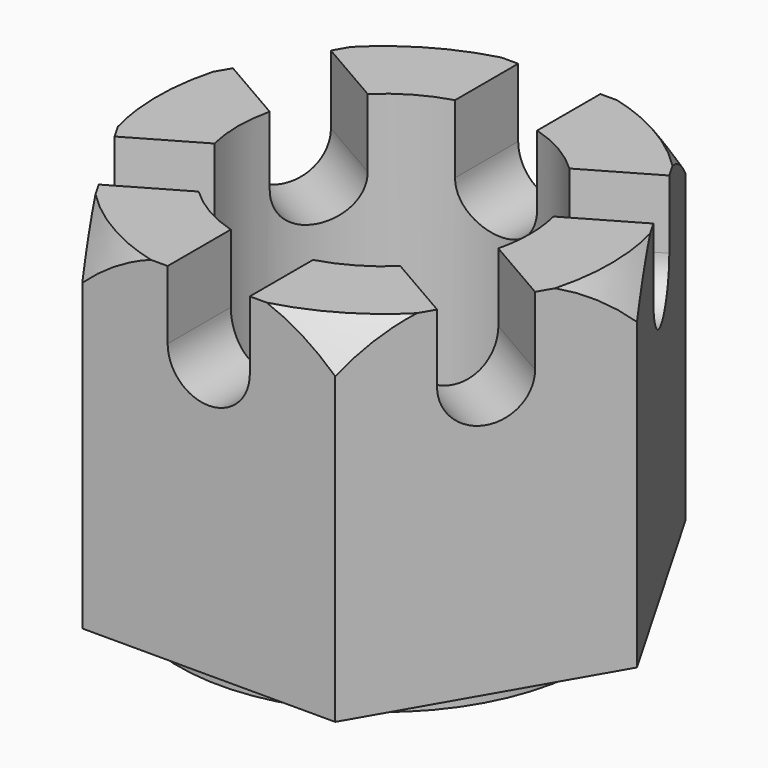
from build123d import *

# Parameters (mm, degrees)
F1_DEPTH  = 19
F2_R      = 11.25
F3_DEPTH  = 0.8
F4_R      = 8
F5_DEPTH  = 17
F7_DEPTH  = 25
F9_DEPTH  = 25
F11_DEPTH = 30.05913
F14_R     = 8
F15_DEPTH = 25


with BuildPart() as f1:
    # F0 (on Top) → F1 (new body)
    with BuildSketch(Plane.XY):
        Polygon((0, -12), (0, 0), (0, 12), (-6.928203, 12), (-13.856406, 0), (-6.928203, -12), align=None)
        Polygon((0, 12), (0, 0), (0, -12), (6.928203, -12), (13.856406, 0), (6.928203, 12), align=None)
    extrude(amount=F1_DEPTH)

    # F2 (on face) → F3 (join)
    with BuildSketch(Plane(origin=(0, 0, 0), x_dir=(1, 0, 0), z_dir=(0, 0, -1))):
        Circle(F2_R)
    extrude(amount=F3_DEPTH)

    # F4 (on face) → F5 (cut)
    with BuildSketch(Plane.XY.offset(19)):
        Circle(F4_R)
    extrude(amount=-F5_DEPTH, mode=Mode.SUBTRACT)

    # F6 (on face) → F7 (cut)
    with BuildSketch(Plane(origin=(10.392305, -6, 0), x_dir=(0.5, 0.866025, 0), z_dir=(0.866025, -0.5, 0))):
        with BuildLine():
            Line((0, 19), (-2.25, 19))
            Line((-2.25, 19), (-2.25, 15.25))
            ThreePointArc((-2.25, 15.25), (0, 13), (2.25, 15.25))
            Line((2.25, 15.25), (2.25, 19))
            Line((2.25, 19), (0, 19))
        make_face()
    extrude(amount=-F7_DEPTH, mode=Mode.SUBTRACT)

    # F8 (on face) → F9 (cut)
    with BuildSketch(Plane(origin=(-10.392305, -6, 0), x_dir=(0.5, -0.866025, 0), z_dir=(-0.866025, -0.5, 0))):
        with BuildLine():
            Line((2.25, 19), (0, 19))
            Line((0, 19), (-2.25, 19))
            Line((-2.25, 19), (-2.25, 15.25))
            ThreePointArc((-2.25, 15.25), (0, 13), (2.25, 15.25))
            Line((2.25, 15.25), (2.25, 19))
        make_face()
    extrude(amount=-F9_DEPTH, mode=Mode.SUBTRACT)

    # F10 (on face) → F11 (cut)
    with BuildSketch(Plane.XZ.offset(12)):
        with BuildLine():
            ThreePointArc((-2.25, 15.25), (0, 13), (2.25, 15.25))
            Line((2.25, 15.25), (2.25, 19))
            Line((2.25, 19), (0, 19))
            Line((0, 19), (-2.25, 19))
            Line((-2.25, 19), (-2.25, 15.25))
        make_face()
    extrude(amount=-F11_DEPTH, mode=Mode.SUBTRACT)

    # F12 (on Front) → F13 (revolve, cut)
    with BuildSketch(Plane.XZ):
        with BuildLine():
            ThreePointArc((8.079038, 23.642426), (13.284742, 17.664152), (16.167056, 10.279615))
            Line((16.167056, 10.279615), (18.863061, 27.862262))
            Line((18.863061, 27.862262), (8.079038, 23.642426))
        make_face()
    revolve(axis=Axis((0, 0, -20.240964), (0, 0, -1)), mode=Mode.SUBTRACT)

    # F14 (on face) → F15 (cut)
    with BuildSketch(Plane(origin=(0, 0, -0.8), x_dir=(1, 0, 0), z_dir=(0, 0, -1))):
        Circle(F14_R)
    extrude(amount=-F15_DEPTH, mode=Mode.SUBTRACT)


solid = f1.part
